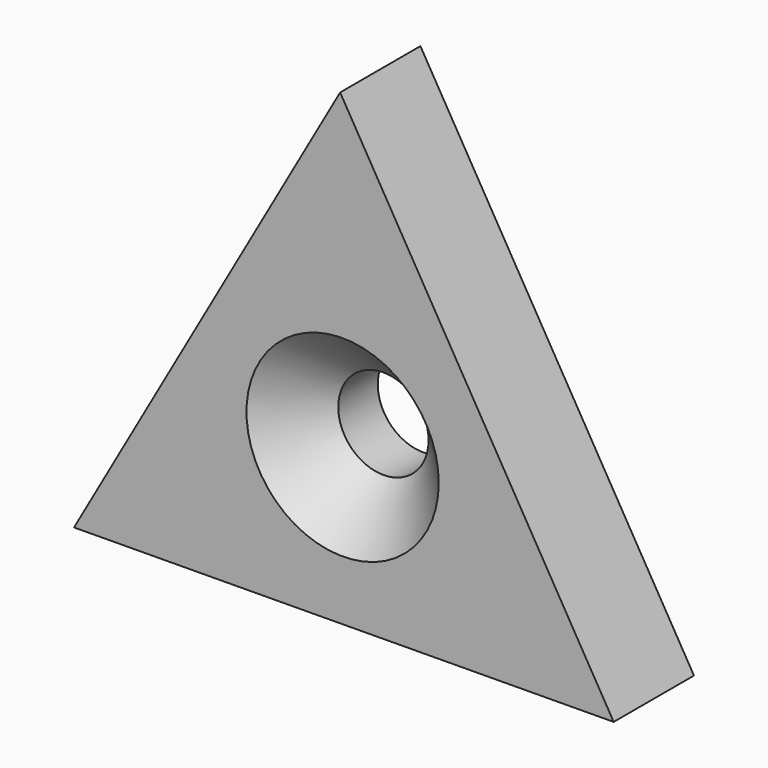
from build123d import *

# Parameters (mm, degrees)
F0_R     = 4.5
F1_DEPTH = 10
F2_SIZE  = 5.08


with BuildPart() as f1:
    # F0 (on Front) → F1 (new body)
    with BuildSketch(Plane.XZ):
        Polygon((-0.247391, 31.048245), (-26.764874, -15.738369), (27.012264, -15.309876), align=None)
        Circle(F0_R, mode=Mode.SUBTRACT)
    extrude(amount=F1_DEPTH)

    # F2
    f2_edges = [f1.edges().sort_by_distance(p)[0] for p in [
        (-4.5, -10, 0),
    ]]
    chamfer(f2_edges, length=F2_SIZE)


solid = f1.part
